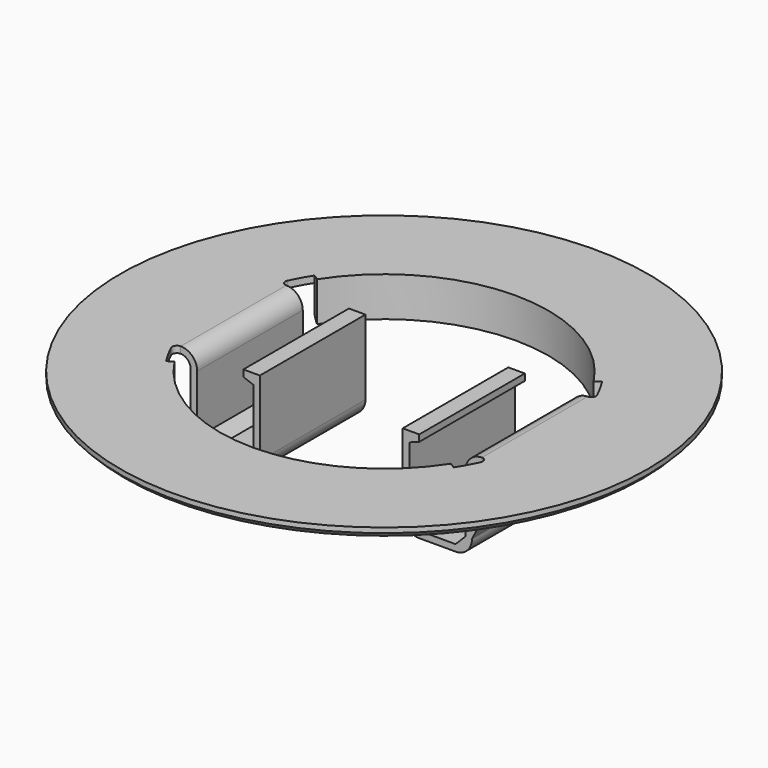
from build123d import *

# Parameters (mm, degrees)
SKETCH007_R           = 80
SKETCH007_R_2         = 55.15
EXTRUDE002_DEPTH      = 1
EXTRUDE_DEPTH         = 20
EXTRUDE003_DEPTH      = 2
EXTRUDE003_DEPTH_BACK = 10
SKETCH006_R           = 80
EXTRUDE001_DEPTH      = 2
CHAMFER_1_SIZE        = 1.5
CHAMFER_2_SIZE        = 1


with BuildPart() as extrude002:
    # Sketch007 → Extrude002 (new body)
    with BuildSketch(Plane.XY):
        Circle(SKETCH007_R)
        Circle(SKETCH007_R_2, mode=Mode.SUBTRACT)
    extrude(amount=-EXTRUDE002_DEPTH)


with BuildPart() as extrude002_1:
    # Extrude002 placement: moved
    add(extrude002.part.moved(Location((0, 0, 29.5))))


with BuildPart() as extrude_body:
    # Sketch005 → Extrude (new body, symmetric)
    with BuildSketch(Plane.XZ):
        with BuildLine():
            Line((-37.65, 3.8), (-26.65, 3.8))
            ThreePointArc((-26.65, 3.8), (-23.114466, 5.264466), (-21.65, 8.8))
            Line((-21.65, 8.8), (-21.65, 31.5))
            Line((-26.65, 31.5), (-21.65, 31.5))
            Line((-26.65, 31.5), (-26.65, 29.5))
            Line((-26.65, 29.5), (-23.65, 28.408089))
            Line((-23.65, 28.408089), (-23.65, 8.8))
            Line((-23.65, 8.8), (-26.65, 5.8))
            Line((-37.65, 5.8), (-26.65, 5.8))
            Line((-37.65, 5.8), (-40.65, 8.8))
            Line((-40.65, 8.8), (-40.65, 26.5))
            ThreePointArc((-40.65, 26.5), (-42.114466, 30.035534), (-45.65, 31.5))
            Line((-45.65, 29.5), (-45.65, 31.5))
            ThreePointArc((-42.65, 26.5), (-43.52868, 28.62132), (-45.65, 29.5))
            Line((-42.65, 11.8), (-42.65, 26.5))
            Line((-44.15, 11.8), (-42.65, 11.8))
            Line((-44.15, 11.8), (-42.65, 8.8))
            ThreePointArc((-42.65, 8.8), (-41.185534, 5.264466), (-37.65, 3.8))
        make_face()
    extrude(amount=EXTRUDE_DEPTH, both=True)


with BuildPart() as part_mirroring:
    # Part__Mirroring: instance of Extrude body
    add(extrude_body.part.mirror(Plane(origin=(0, 0, 0), x_dir=(0, -1, 0), z_dir=(1, 0, 0))))


with BuildPart() as frontplateoverhang:
    # Sketch008 → Extrude003 (new body, two sides)
    with BuildSketch(Plane.XY) as extrude003_sk:
        with BuildLine():
            ThreePointArc((41.88707, 27.027688), (0, 49.85), (-41.88707, 27.027688))
            Line((-41.88707, 27.027688), (-43.567594, 28.112048))
            ThreePointArc((43.567594, 28.112048), (0, 51.85), (-43.567594, 28.112048))
            Line((41.88707, 27.027688), (43.567594, 28.112048))
        make_face()
    extrude(amount=EXTRUDE003_DEPTH)
    extrude(extrude003_sk.sketch, amount=-EXTRUDE003_DEPTH_BACK)


with BuildPart() as frontplateoverhang_1:
    # Extrude003 placement: moved
    add(frontplateoverhang.part.moved(Location((0, 0, 29.5))))


with BuildPart() as part_mirroring001:
    # Part__Mirroring001: instance of frontplateoverhang
    add(frontplateoverhang_1.part.mirror(Plane(origin=(0, 0, 0), x_dir=(1, 0, 0), z_dir=(0, 1, 0))))


with BuildPart() as frontplate:
    # Sketch006 → Extrude001 (new body)
    with BuildSketch(Plane.XY):
        Circle(SKETCH006_R)
        with BuildLine():
            Line((-45.65, 0), (-45.65, 20))
            ThreePointArc((-46.938294, 22.027688), (-46.851168, 20.65994), (-45.65, 20))
            ThreePointArc((46.938287, 22.027703), (-8e-06, 51.85), (-46.938294, 22.027688))
            ThreePointArc((45.65, 20), (46.851173, 20.659947), (46.938287, 22.027703))
            Line((45.65, 0), (45.65, 20))
            Line((45.65, 0), (45.65, -20))
            ThreePointArc((46.938287, -22.027703), (46.851173, -20.659947), (45.65, -20))
            ThreePointArc((-46.938294, -22.027688), (-8e-06, -51.85), (46.938287, -22.027703))
            ThreePointArc((-45.65, -20), (-46.851168, -20.65994), (-46.938294, -22.027688))
            Line((-45.65, 0), (-45.65, -20))
        make_face(mode=Mode.SUBTRACT)
    extrude(amount=EXTRUDE001_DEPTH)


with BuildPart() as frontplate_1:
    # Extrude001 placement: moved
    add(frontplate.part.moved(Location((0, 0, 29.5))))

    # Fusion: union Extrude002, Part__Mirroring, Extrude body, Part__Mirroring001, frontplateoverhang
    add(extrude002_1.part)
    add(part_mirroring.part)
    add(extrude_body.part)
    add(part_mirroring001.part)
    add(frontplateoverhang_1.part)

    # Chamfer 1
    chamfer_1_edges = [frontplate_1.edges().sort_by_distance(p)[0] for p in [
        (-80, 0, 28.5),
        (0, 51.85, 19.5),
    ]]
    chamfer(chamfer_1_edges, length=CHAMFER_1_SIZE)

    # Chamfer 2
    chamfer_2_edges = [frontplate_1.edges().sort_by_distance(p)[0] for p in [
        (0, -51.85, 19.5),
    ]]
    chamfer(chamfer_2_edges, length=CHAMFER_2_SIZE)


solid = frontplate_1.part
